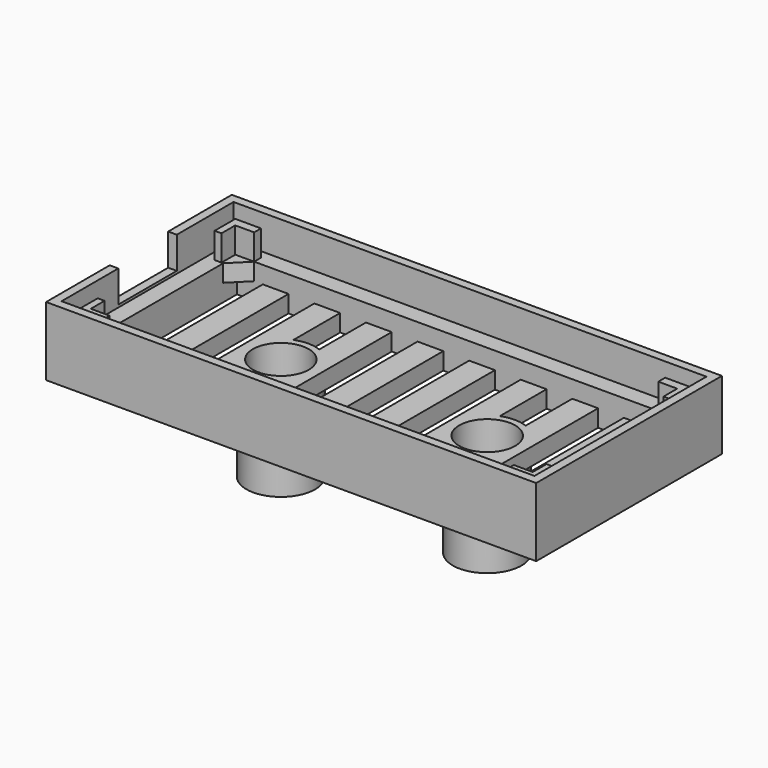
from build123d import *

# Parameters (mm, degrees)
SKETCH_W                = 57
SKETCH_H                = 27
PAD_DEPTH               = 2
PAD001_DEPTH            = 3
PAD001_MIRRORED_2_DEPTH = 3
POCKET_DEPTH            = 2
SKETCH003_W             = 57
SKETCH003_H             = 27
SKETCH003_W_2           = 55
SKETCH003_H_2           = 25
PAD002_DEPTH            = 4
SKETCH004_W             = 1
SKETCH004_H             = 8.5
POCKET001_DEPTH         = 3.7
SKETCH005_W             = 57
SKETCH005_H             = 27
PAD003_DEPTH            = 2
SKETCH006_W             = 3
SKETCH006_H             = 21
POCKET002_DEPTH         = 2
LINEARPATTERN_COUNT     = 10
LINEARPATTERN_PITCH     = 6
SKETCH007_R             = 4
PAD004_DEPTH            = 12
SKETCH008_R             = 3.25
POCKET003_DEPTH         = 12


with BuildPart() as part:
    # Sketch → Pad (new body)
    with BuildSketch(Plane.XY):
        Rectangle(SKETCH_W, SKETCH_H)
    extrude(amount=PAD_DEPTH)

    # Sketch001 (on Face6 of Pad) → Pad001 (join)
    with BuildSketch(Plane.XY.offset(2)):
        Polygon((-26.5, 11.5), (-23.5, 11.5), (-23.5, 10.5), (-25.7, 10.5), (-25.7, 8.5), (-26.5, 8.5), align=None)
    pad001 = extrude(amount=PAD001_DEPTH)

    # Sketch001 Mirrored 2 → Pad001 Mirrored 2 (add)
    with BuildSketch(Plane(origin=(0, 0, 2), x_dir=(-1, 0, 0), z_dir=(0, 0, -1))):
        Polygon((-26.5, 11.5), (-23.5, 11.5), (-23.5, 10.5), (-25.7, 10.5), (-25.7, 8.5), (-26.5, 8.5), align=None)
    pad001_mirrored_2 = extrude(amount=-PAD001_MIRRORED_2_DEPTH)

    # Mirrored001: Pad001, Pad001 Mirrored 2 across Sketch001 H_Axis
    add(pad001.mirror(Plane(origin=(0, 0, 2), x_dir=(0, 0, 1), z_dir=(0, 1, 0))))
    add(pad001_mirrored_2.mirror(Plane(origin=(0, 0, 2), x_dir=(0, 0, 1), z_dir=(0, 1, 0))))

    # Sketch002 (on Face5 of MultiTransform) → Pocket (cut)
    with BuildSketch(Plane.XY.offset(2)):
        Polygon((23.5, 10.5), (25.5, 8.5), (25.5, -8.5), (23.5, -10.5), (-23.5, -10.5), (-25.5, -8.5), (-25.5, 8.5), (-23.5, 10.5), align=None)
    extrude(amount=-POCKET_DEPTH, mode=Mode.SUBTRACT)

    # Sketch003 (on Face5 of Pocket) → Pad002 (join)
    with BuildSketch(Plane.XY.offset(2)):
        Rectangle(SKETCH003_W, SKETCH003_H)
        Rectangle(SKETCH003_W_2, SKETCH003_H_2, mode=Mode.SUBTRACT)
    extrude(amount=PAD002_DEPTH)

    # Sketch004 (on Face17 of Pad002) → Pocket001 (cut)
    with BuildSketch(Plane.XY.offset(6)):
        with Locations((-28, 0)):
            Rectangle(SKETCH004_W, SKETCH004_H)
    extrude(amount=-POCKET001_DEPTH, mode=Mode.SUBTRACT)

    # Sketch005 (on Face4 of Pocket001) → Pad003 (join)
    with BuildSketch(Plane(origin=(0, 0, 0), x_dir=(1, 0, 0), z_dir=(0, 0, -1))):
        Rectangle(SKETCH005_W, SKETCH005_H)
    extrude(amount=PAD003_DEPTH)

    # Sketch006 (on Face11 of Pad003) → Pocket002 (cut)
    with BuildSketch(Plane(origin=(0, 0, -2), x_dir=(1, 0, 0), z_dir=(0, 0, -1))):
        with Locations((-24, 0)):
            Rectangle(SKETCH006_W, SKETCH006_H)
    pocket002 = extrude(amount=-POCKET002_DEPTH, mode=Mode.SUBTRACT)

    # LinearPattern: Pocket002 ×10
    with Locations(*[(i * LINEARPATTERN_PITCH, 0, 0) for i in range(1, LINEARPATTERN_COUNT)]):
        add(pocket002, mode=Mode.SUBTRACT)

    # Sketch007 (on Face62 of LinearPattern) → Pad004 (join)
    with BuildSketch(Plane(origin=(0, 0, 0), x_dir=(1, 0, 0), z_dir=(0, 0, -1))):
        with Locations((-12, 0)):
            Circle(SKETCH007_R)
    pad004 = extrude(amount=PAD004_DEPTH)

    # Sketch008 (on Face72 of Pad004) → Pocket003 (cut)
    with BuildSketch(Plane(origin=(0, 0, -12), x_dir=(1, 0, 0), z_dir=(0, 0, -1))):
        with Locations((-12, 0)):
            Circle(SKETCH008_R)
    pocket003 = extrude(amount=-POCKET003_DEPTH, mode=Mode.SUBTRACT)

    # Mirrored002: Pad004 across Sketch007 V_Axis
    add(pad004.mirror(Plane(origin=(0, 0, 0), x_dir=(0, 0, -1), z_dir=(1, 0, 0))))

    # Mirrored003: Pocket003 across Sketch008 V_Axis
    add(pocket003.mirror(Plane(origin=(0, 0, -12), x_dir=(0, 0, -1), z_dir=(1, 0, 0))), mode=Mode.SUBTRACT)


solid = part.part
